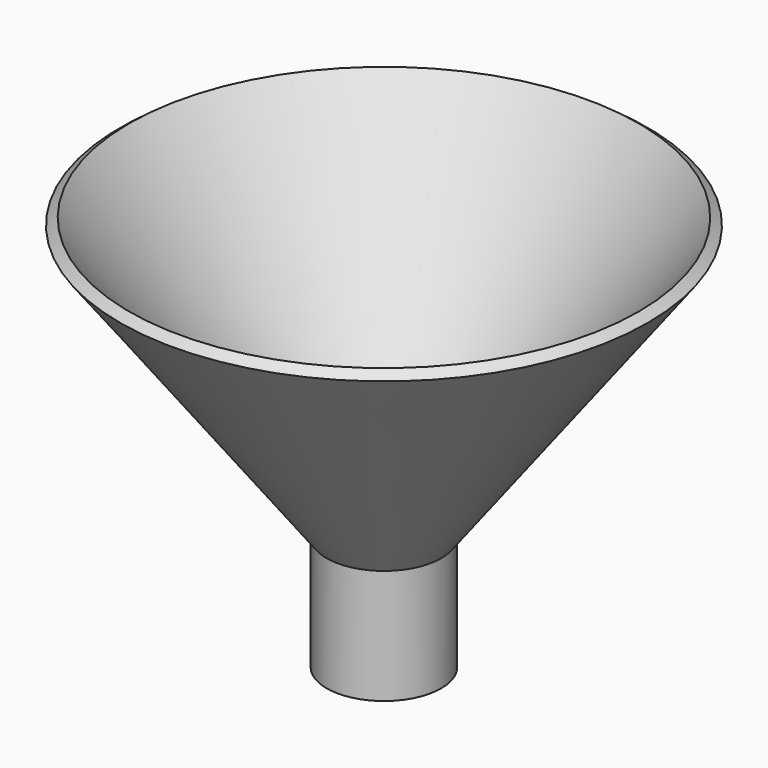
from build123d import *

# Parameters (mm, degrees)
F0_W     = 12.7
F0_H     = 25.4
F2_R     = 11.056857
F3_DEPTH = 25.4


with BuildPart() as f1:
    # F0 (on Front) → F1 (revolve)
    with BuildSketch(Plane.XZ):
        Polygon((0, 4.222946), (0, 0), (45.832455, 60.875496), (43.803272, 62.403245), align=None)
        with Locations((-6.35, -12.7)):
            Rectangle(F0_W, F0_H)
    revolve(axis=Axis((-12.7, 0, -12.7), (0, 0, 1)))

    # F2 (on face) → F3 (cut)
    with BuildSketch(Plane.XY):
        with Locations((-12.7, 0)):
            Circle(F2_R)
    extrude(amount=-F3_DEPTH, mode=Mode.SUBTRACT)


solid = f1.part
